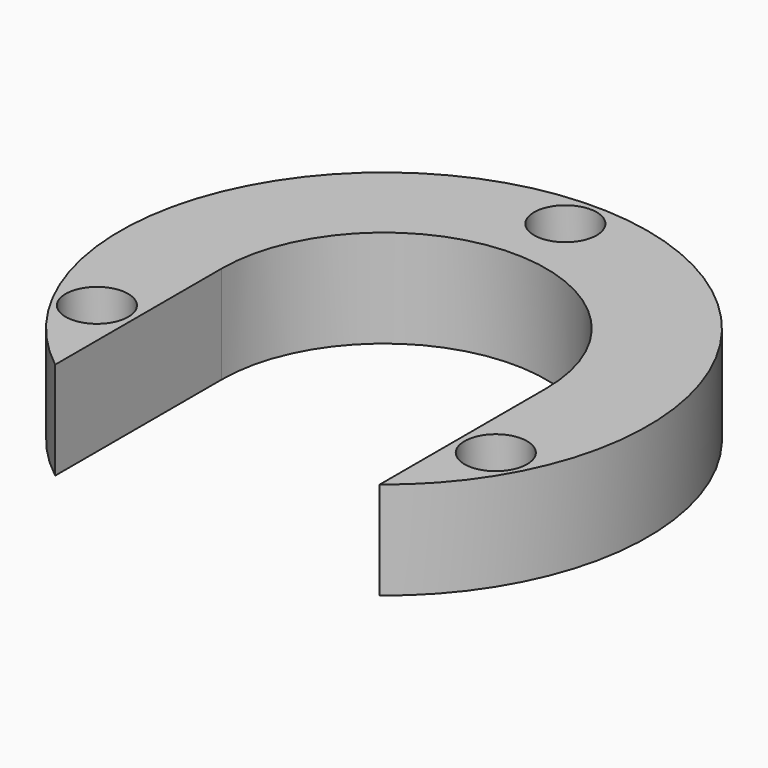
from build123d import *

# Parameters (mm, degrees)
F0_R     = 67.5
F1_DEPTH = 25
F3_DEPTH = 25.001
F4_R     = 5.25
F5_DEPTH = 25.001
F4_R_2   = 8
F6_DEPTH = 10


with BuildPart() as f1:
    # F0 (on Top) → F1 (new body)
    with BuildSketch(Plane.XY):
        Circle(F0_R)
    extrude(amount=F1_DEPTH)

    # F2 (on face) → F3 (cut, through all)
    with BuildSketch(Plane.XY.offset(25)):
        with BuildLine():
            ThreePointArc((-41.5, 0), (0, -41.5), (41.5, 0))
            ThreePointArc((41.5, 0), (0, 41.5), (-41.5, 0))
        make_face()
        with BuildLine():
            Line((41.5, -53.235327), (41.5, 0))
            ThreePointArc((41.5, 0), (0, -41.5), (-41.5, 0))
            Line((-41.5, 0), (-41.5, -53.235327))
            ThreePointArc((-41.5, -53.235327), (0, -67.5), (41.5, -53.235327))
        make_face()
    extrude(amount=-F3_DEPTH, mode=Mode.SUBTRACT)

    # F4 (on face) → F5 (cut, through all)
    with BuildSketch(Plane.XY.offset(25)):
        with Locations((51, -28)):
            Circle(F4_R)
        with Locations((-51, -28)):
            Circle(F4_R)
        with Locations((0, 58)):
            Circle(F4_R)
    extrude(amount=-F5_DEPTH, mode=Mode.SUBTRACT)

    # F4 (on face) → F6 (cut)
    with BuildSketch(Plane.XY.offset(25)):
        with Locations((51, -28)):
            Circle(F4_R_2)
        with Locations((51, -28)):
            Circle(F4_R, mode=Mode.SUBTRACT)
        with Locations((0, 58)):
            Circle(F4_R_2)
        with Locations((0, 58)):
            Circle(F4_R, mode=Mode.SUBTRACT)
        with Locations((-51, -28)):
            Circle(F4_R_2)
        with Locations((-51, -28)):
            Circle(F4_R, mode=Mode.SUBTRACT)
    extrude(amount=-F6_DEPTH, mode=Mode.SUBTRACT)


solid = f1.part
